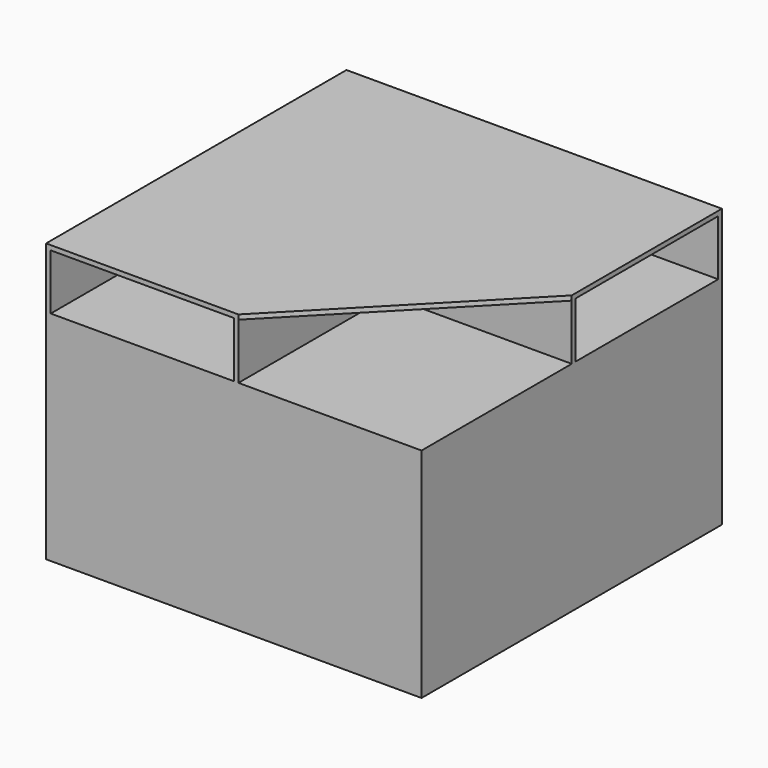
from build123d import *

# Parameters (mm, degrees)
F0_W     = 1028.7
F0_H     = 1028.7
F1_DEPTH = 12.7
F2_W     = 1028.7
F2_H     = 1028.7
F2_W_2   = 1003.3
F2_H_2   = 1003.3
F3_DEPTH = 584.2
F4_W     = 1028.7
F4_H     = 1028.7
F5_DEPTH = 12.7
F6_W     = 501.65
F6_H     = 488.95
F7_DEPTH = 152.4
F9_DEPTH = 12.7


with BuildPart() as f1:
    # F0 (on Top) → F1 (new body)
    with BuildSketch(Plane.XY):
        with Locations((514.35, 514.35)):
            Rectangle(F0_W, F0_H)
        with Locations((514.35, 514.35)):
            Rectangle(F0_W, F0_H)
    extrude(amount=F1_DEPTH)

    # F2 (on Top) → F3 (join)
    with BuildSketch(Plane.XY):
        with Locations((514.35, 514.35)):
            Rectangle(F2_W, F2_H)
        with Locations((514.35, 514.35)):
            Rectangle(F2_W_2, F2_H_2, mode=Mode.SUBTRACT)
    extrude(amount=F3_DEPTH)

    # F4 (on face) → F5 (join)
    with BuildSketch(Plane.XY.offset(584.2)):
        with Locations((514.35, 514.35)):
            Rectangle(F4_W, F4_H)
    extrude(amount=F5_DEPTH)

    # F6 (on face) → F7 (join)
    with BuildSketch(Plane.XY.offset(596.9)):
        Polygon((1028.7, 1028.7), (0, 1028.7), (0, 0), (12.7, 0), (12.7, 12.7), (12.7, 514.35), (514.35, 514.35), (514.35, 12.7), (514.35, 0), (527.05, 0), (527.05, 12.7), (527.05, 514.35), (952.5, 514.35), (1028.7, 514.35), (1028.7, 527.05), (952.5, 527.05), (527.05, 527.05), (527.05, 1016), (1016, 1016), (1028.7, 1016), align=None)
        with Locations((263.525, 771.525)):
            Rectangle(F6_W, F6_H, mode=Mode.SUBTRACT)
    extrude(amount=F7_DEPTH)

    # F8 (on face) → F9 (join)
    with BuildSketch(Plane.XY.offset(749.3)):
        Polygon((0, 1028.7), (0, 0), (527.05, 0), (1028.7, 514.35), (1028.7, 1028.7), align=None)
    extrude(amount=F9_DEPTH)


solid = f1.part
